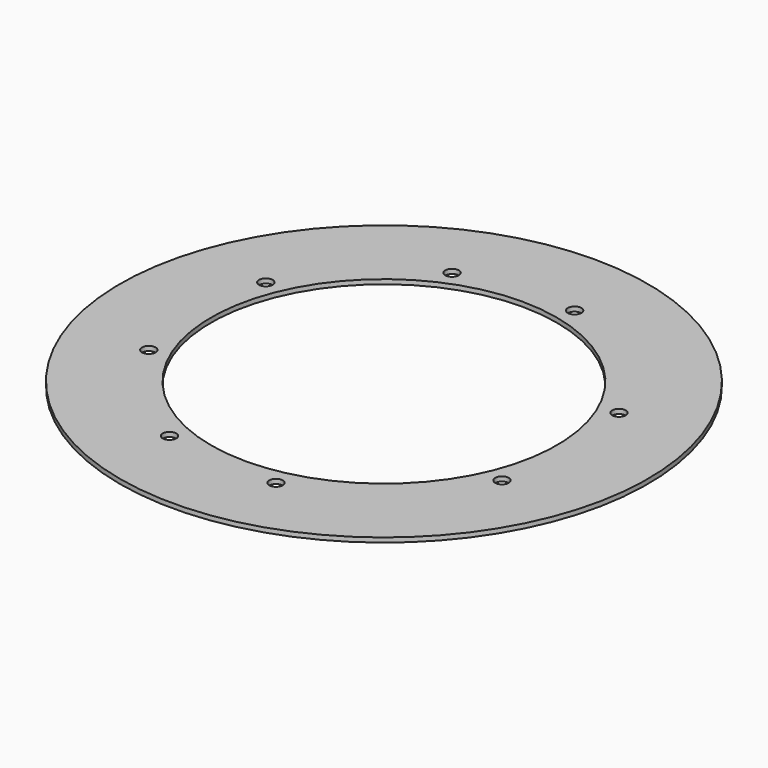
from build123d import *

# Parameters (mm, degrees)
CYLINDER789_R               = 1.5
CYLINDER789_DEPTH           = 100
CYLINDER789_PLACEMENT_ANGLE = 100
CYLINDER791_R               = 1.5
CYLINDER791_DEPTH           = 100
CYLINDER791_PLACEMENT_ANGLE = 135
CYLINDER792_R               = 1.5
CYLINDER792_DEPTH           = 100
CYLINDER795_R               = 1.5
CYLINDER795_DEPTH           = 100
CYLINDER795_PLACEMENT_ANGLE = 225
CYLINDER790_R               = 1.5
CYLINDER790_DEPTH           = 100
CYLINDER793_R               = 1.5
CYLINDER793_DEPTH           = 100
CYLINDER793_PLACEMENT_ANGLE = 55
CYLINDER788_R               = 1.5
CYLINDER788_DEPTH           = 100
CYLINDER794_R               = 1.5
CYLINDER794_DEPTH           = 100
CYLINDER794_PLACEMENT_ANGLE = 45
TUBE080_R                   = 58
TUBE080_R_2                 = 38
TUBE080_DEPTH               = 1
CUT330_PLACEMENT_ANGLE      = 90


with BuildPart() as obj1:
    # Cylinder789 → Cylinder789 (new body)
    with BuildSketch(Plane.XY):
        Circle(CYLINDER789_R)
    extrude(amount=CYLINDER789_DEPTH)


with BuildPart() as obj1_1:
    # Cylinder789 placement: moved
    add(obj1.part.moved(Location((41.004432, -9.090464, 0))).rotate(Axis((41.004432, -9.090464, 0), (0, 0, 1)), CYLINDER789_PLACEMENT_ANGLE))


with BuildPart() as obj2:
    # Cylinder791 → Cylinder791 (new body)
    with BuildSketch(Plane.XY):
        Circle(CYLINDER791_R)
    extrude(amount=CYLINDER791_DEPTH)


with BuildPart() as obj2_1:
    # Cylinder791 placement: moved
    add(obj2.part.moved(Location((38.80294, 16.072704, 0))).rotate(Axis((38.80294, 16.072704, 0), (0, 0, 1)), CYLINDER791_PLACEMENT_ANGLE))


with BuildPart() as obj3:
    # Cylinder792 → Cylinder792 (new body)
    with BuildSketch(Plane(origin=(16.072704, 38.80294, 0), x_dir=(-1, 0, 0), z_dir=(0, 0, 1))):
        Circle(CYLINDER792_R)
    extrude(amount=CYLINDER792_DEPTH)


with BuildPart() as obj4:
    # Cylinder795 → Cylinder795 (new body)
    with BuildSketch(Plane.XY):
        Circle(CYLINDER795_R)
    extrude(amount=CYLINDER795_DEPTH)


with BuildPart() as obj4_1:
    # Cylinder795 placement: moved
    add(obj4.part.moved(Location((-16.072704, 38.80294, 0))).rotate(Axis((-16.072704, 38.80294, 0), (0, 0, 1)), CYLINDER795_PLACEMENT_ANGLE))


with BuildPart() as obj5:
    # Cylinder790 → Cylinder790 (new body)
    with BuildSketch(Plane(origin=(-38.80294, 16.072704, 0), x_dir=(0, -1, 0), z_dir=(0, 0, 1))):
        Circle(CYLINDER790_R)
    extrude(amount=CYLINDER790_DEPTH)


with BuildPart() as obj6:
    # Cylinder793 → Cylinder793 (new body)
    with BuildSketch(Plane.XY):
        Circle(CYLINDER793_R)
    extrude(amount=CYLINDER793_DEPTH)


with BuildPart() as obj6_1:
    # Cylinder793 placement: moved
    add(obj6.part.moved(Location((-41.004432, -9.090464, 0))).rotate(Axis((-41.004432, -9.090464, 0), (0, 0, -1)), CYLINDER793_PLACEMENT_ANGLE))


with BuildPart() as obj7:
    # Cylinder788 → Cylinder788 (new body)
    with BuildSketch(Plane(origin=(-16.072704, -38.80294, 0), x_dir=(1, 0, 0), z_dir=(0, 0, 1))):
        Circle(CYLINDER788_R)
    extrude(amount=CYLINDER788_DEPTH)


with BuildPart() as compound714:
    # Cylinder794 → Cylinder794 (new body)
    with BuildSketch(Plane.XY):
        Circle(CYLINDER794_R)
    extrude(amount=CYLINDER794_DEPTH)


with BuildPart() as compound714_1:
    # Cylinder794 placement: moved
    add(compound714.part.moved(Location((16.072704, -38.80294, 0))).rotate(Axis((16.072704, -38.80294, 0), (0, 0, 1)), CYLINDER794_PLACEMENT_ANGLE))

    # Compound714: union obj1, obj2, obj3, obj4, obj5, obj6, obj7
    add(obj1_1.part)
    add(obj2_1.part)
    add(obj3.part)
    add(obj4_1.part)
    add(obj5.part)
    add(obj6_1.part)
    add(obj7.part)


with BuildPart() as obj8:
    # Tube080 → Tube080 (new body)
    with BuildSketch(Plane.XY.offset(42)):
        Circle(TUBE080_R)
        Circle(TUBE080_R_2, mode=Mode.SUBTRACT)
    extrude(amount=TUBE080_DEPTH)

    # Cut330: cut Compound714
    add(compound714_1.part, mode=Mode.SUBTRACT)


with BuildPart() as obj8_1:
    # Cut330 placement: moved
    add(obj8.part.rotate(Axis((0, 0, 0), (0, 0, 1)), CUT330_PLACEMENT_ANGLE))


solid = obj8_1.part
